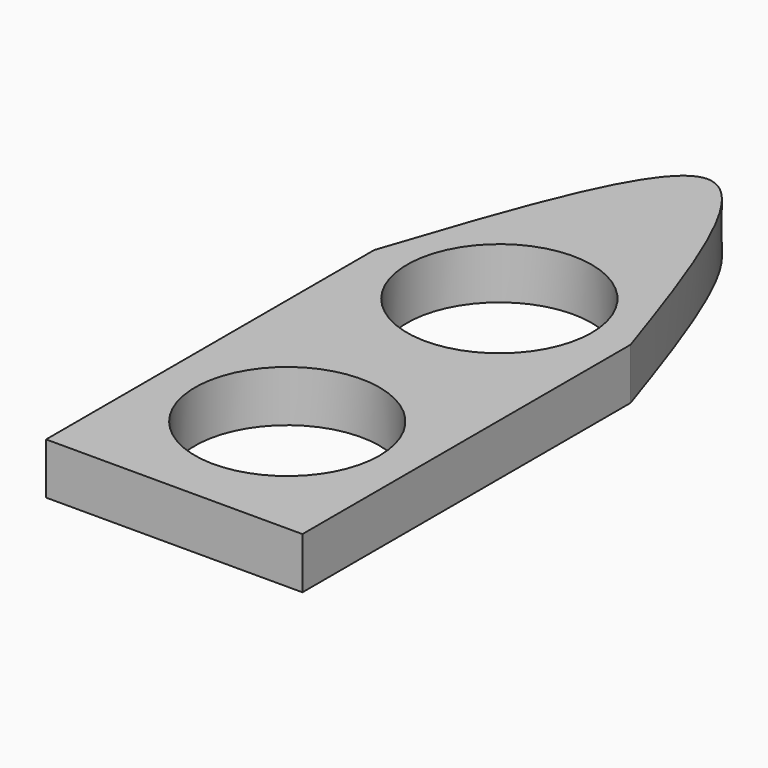
from build123d import *

# Parameters (mm, degrees)
F0_R     = 9
F1_DEPTH = 5


with BuildPart() as f1:
    # F0 (on Top) → F1 (new body)
    with BuildSketch(Plane.XY):
        with BuildLine():
            Line((-12.5, 0), (0, 0))
            Line((0, 0), (12.5, 0))
            Line((12.5, 0), (12.5, 40))
            add(Edge.make_bspline(
                [(-12.5, 40), (-8.333333, 52.499999), (0, 77.499999), (8.333333, 52.500003), (12.5, 40)],
                knots=[0, 0, 0, 0, 27.95085, 55.901699, 55.901699, 55.901699, 55.901699], degree=3))
            Line((-12.5, 40), (-12.5, 0))
        make_face()
        with Locations((0, 13.77663)):
            Circle(F0_R, mode=Mode.SUBTRACT)
        with Locations((-0.04027, 39.684255)):
            Circle(F0_R, mode=Mode.SUBTRACT)
    extrude(amount=F1_DEPTH)


solid = f1.part
